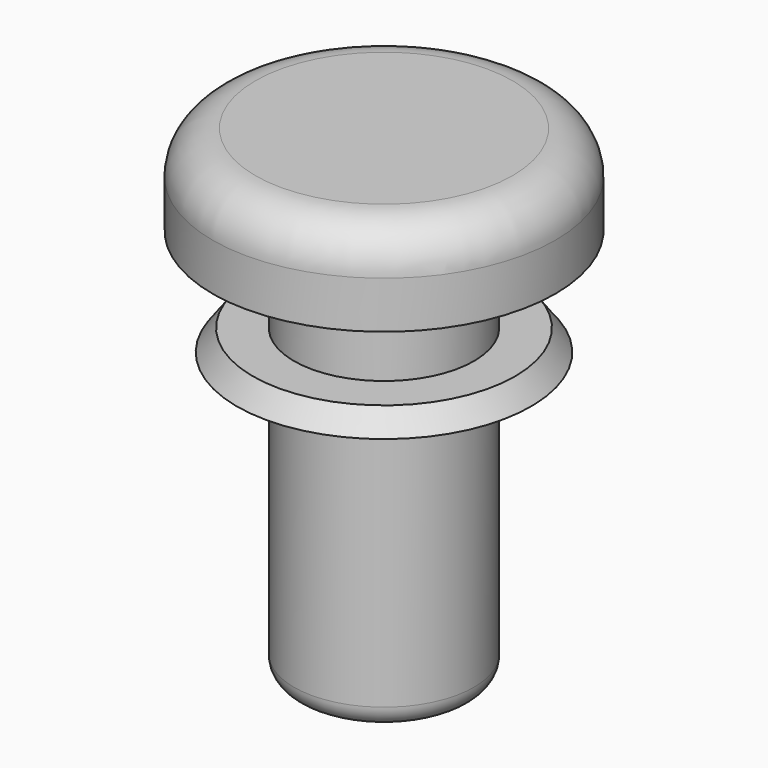
from build123d import *


with BuildPart() as f1:
    # F0 (on Right) → F1 (revolve)
    with BuildSketch(Plane.YZ):
        with BuildLine():
            Line((1.923602, -1.233667), (1.923602, 4.523472))
            Line((1.923602, 4.523472), (-1.076398, 4.523472))
            ThreePointArc((-1.076398, 4.523472), (-1.783504, 4.230579), (-2.076398, 3.523472))
            Line((-2.076398, 3.523472), (-2.076398, 2.423472))
            Line((-2.076398, 2.423472), (-0.176398, 2.423472))
            Line((-0.176398, 2.423472), (-0.176398, 0.423472))
            Line((-0.176398, 0.423472), (-1.137388, 0.423472))
            Line((-1.137388, 0.423472), (-1.507357, -0.076528))
            Line((-1.507357, -0.076528), (-0.176398, -0.076528))
            Line((-0.176398, -0.076528), (-0.176398, -6.276528))
            ThreePointArc((-0.176398, -6.276528), (-0.029951, -6.630081), (0.323602, -6.776528))
            Line((0.323602, -6.776528), (0.99782, -6.776528))
            Line((0.99782, -6.776528), (0.99782, -1.233667))
            Line((0.99782, -1.233667), (1.923602, -1.233667))
        make_face()
    revolve(axis=Axis((0, 1.923602, 1.644903), (0, 0, -1)))


solid = f1.part
